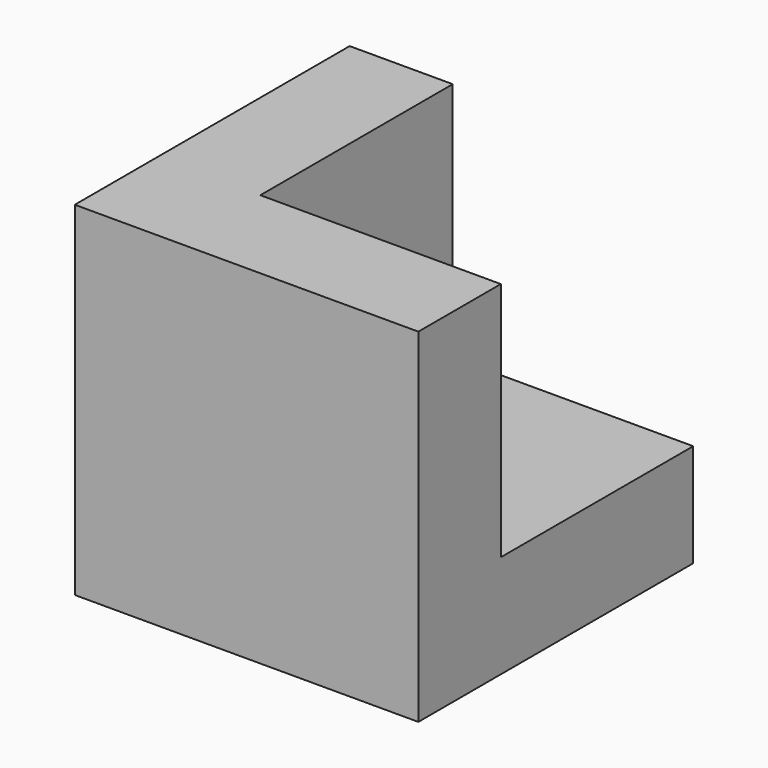
from build123d import *

# Parameters (mm, degrees)
BOX_W        = 10
BOX_H        = 10
BOX_DEPTH    = 10
BOX001_W     = 10
BOX001_H     = 10
BOX001_DEPTH = 10


with BuildPart() as cub_base:
    # Box → Box (new body)
    with BuildSketch(Plane(origin=(5, 5, 5), x_dir=(1, 0, 0), z_dir=(0, 0, 1))):
        with Locations((5, 5)):
            Rectangle(BOX_W, BOX_H)
    extrude(amount=BOX_DEPTH)


with BuildPart() as obj1:
    # Box001 → Box001 (new body)
    with BuildSketch(Plane(origin=(2, 2, 2), x_dir=(1, 0, 0), z_dir=(0, 0, 1))):
        with Locations((5, 5)):
            Rectangle(BOX001_W, BOX001_H)
    extrude(amount=BOX001_DEPTH)

    # Cut: cut Cub base
    add(cub_base.part, mode=Mode.SUBTRACT)


solid = obj1.part
